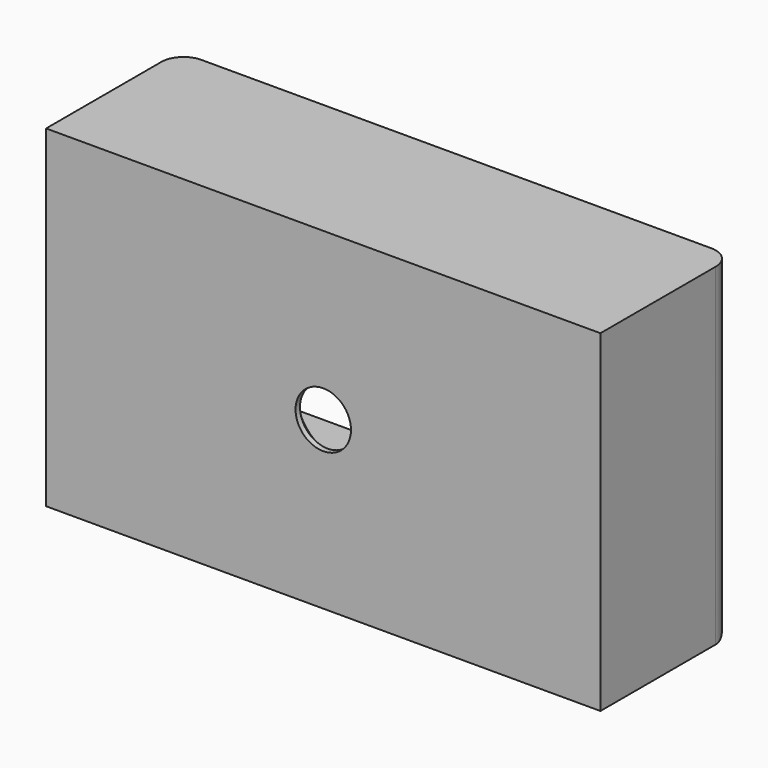
from build123d import *

# Parameters (mm, degrees)
F0_W     = 127
F0_H     = 76.2
F1_DEPTH = 38.1
F2_R     = 6.35
F3_DEPTH = 50.8
F4_R     = 5.08
F5_W     = 114.3
F5_H     = 50.8
F6_DEPTH = 31.75
F7_SIZE  = 5.08


with BuildPart() as f1:
    # F0 (on Front) → F1 (new body)
    with BuildSketch(Plane.XZ):
        Rectangle(F0_W, F0_H)
    extrude(amount=F1_DEPTH)

    # F2 (on Front) → F3 (cut)
    with BuildSketch(Plane.XZ):
        Circle(F2_R)
    extrude(amount=F3_DEPTH, mode=Mode.SUBTRACT)

    # F4
    f4_edges = [f1.edges().sort_by_distance(p)[0] for p in [
        (63.5, 0, 0),
        (0, 0, -38.1),
        (-63.5, 0, 0),
    ]]
    fillet(f4_edges, radius=F4_R)

    # F5 (on Front) → F6 (cut)
    with BuildSketch(Plane.XZ):
        Rectangle(F5_W, F5_H)
    extrude(amount=F6_DEPTH, mode=Mode.SUBTRACT)

    # F7
    f7_edges = [f1.edges().sort_by_distance(p)[0] for p in [
        (-6.35, -31.75, 0),
        (0, -31.75, 25.4),
        (57.15, -31.75, 0),
        (-57.15, -31.75, 0),
        (0, -31.75, -25.4),
    ]]
    chamfer(f7_edges, length=F7_SIZE)


solid = f1.part
